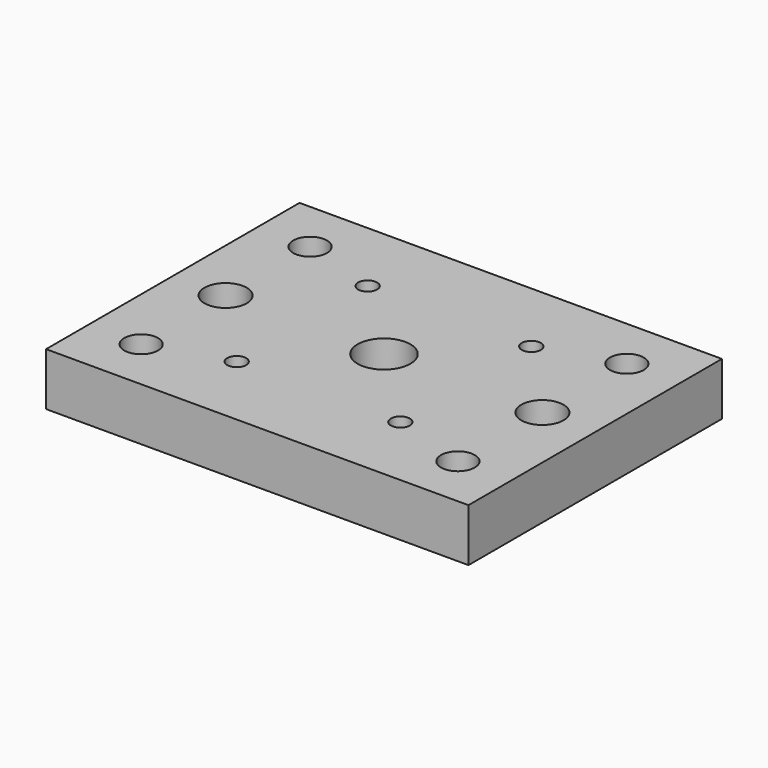
from build123d import *

# Parameters (mm, degrees)
SKETCH_W   = 80
SKETCH_H   = 60
SKETCH_R   = 5
SKETCH_R_2 = 1.8
SKETCH_R_3 = 3.2
SKETCH_R_4 = 4
PAD_DEPTH  = 10


with BuildPart() as part:
    # Sketch → Pad (new body)
    with BuildSketch(Plane.XY):
        with Locations((40, 30)):
            Rectangle(SKETCH_W, SKETCH_H)
        with Locations((40, 30)):
            Circle(SKETCH_R, mode=Mode.SUBTRACT)
        with Locations((55.5, 45.5)):
            Circle(SKETCH_R_2, mode=Mode.SUBTRACT)
        with Locations((55.5, 14.5)):
            Circle(SKETCH_R_2, mode=Mode.SUBTRACT)
        with Locations((24.5, 14.5)):
            Circle(SKETCH_R_2, mode=Mode.SUBTRACT)
        with Locations((24.5, 45.5)):
            Circle(SKETCH_R_2, mode=Mode.SUBTRACT)
        with Locations((10, 10)):
            Circle(SKETCH_R_3, mode=Mode.SUBTRACT)
        with Locations((70, 10)):
            Circle(SKETCH_R_3, mode=Mode.SUBTRACT)
        with Locations((70, 30)):
            Circle(SKETCH_R_4, mode=Mode.SUBTRACT)
        with Locations((10, 30)):
            Circle(SKETCH_R_4, mode=Mode.SUBTRACT)
        with Locations((10, 50)):
            Circle(SKETCH_R_3, mode=Mode.SUBTRACT)
        with Locations((70, 50)):
            Circle(SKETCH_R_3, mode=Mode.SUBTRACT)
    extrude(amount=PAD_DEPTH)


solid = part.part
